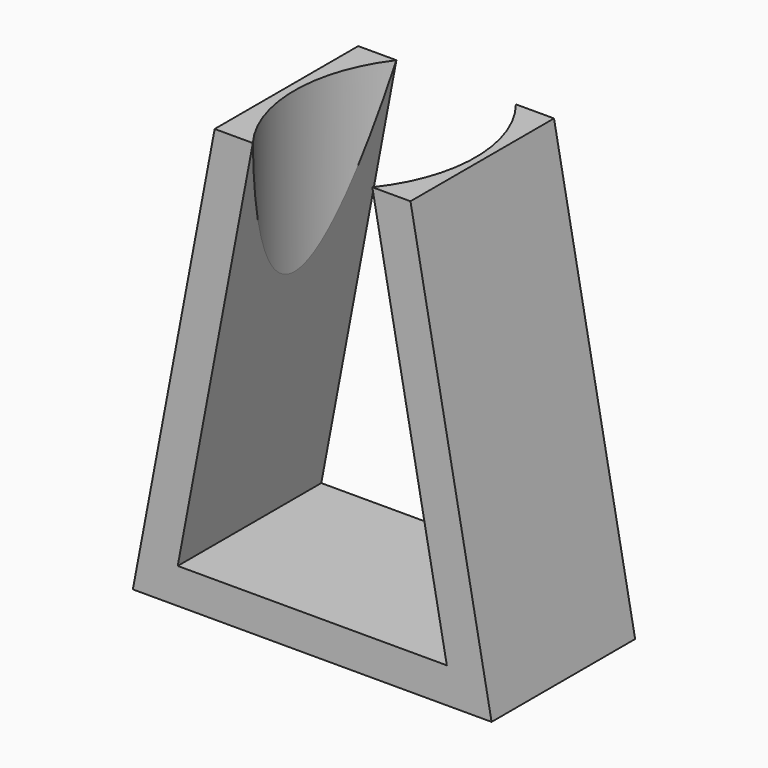
from build123d import *

# Parameters (mm, degrees)
F1_DEPTH = 10.16
F3_DEPTH = 20.32
F5_DEPTH = 20.32


with BuildPart() as f1:
    # F0 (on Front) → F1 (new body)
    with BuildSketch(Plane.XZ):
        Polygon((-10.16, 0), (0, 0), (10.149805, 0), (5.557302, 24.457385), (3.397579, 24.457385), (7.615184, 1.996521), (0, 1.996521), (-7.62, 1.996521), (-3.366859, 24.457385), (-5.528802, 24.457385), align=None)
    extrude(amount=F1_DEPTH)

    # F2 (on face) → F3 (cut)
    with BuildSketch(Plane.XY.offset(24.457385)):
        with BuildLine():
            Line((-3.366859, -10.16), (-3.366859, 0))
            ThreePointArc((-3.366859, 0), (-5.074936, -5.08), (-3.366859, -10.16))
        make_face()
    extrude(amount=-F3_DEPTH, mode=Mode.SUBTRACT)

    # F4 (on face) → F5 (cut)
    with BuildSketch(Plane.XY.offset(24.457385)):
        with BuildLine():
            Line((3.397579, 0), (3.397579, -10.16))
            ThreePointArc((3.397579, -10.16), (5.178992, -5.08), (3.397579, 0))
        make_face()
    extrude(amount=-F5_DEPTH, mode=Mode.SUBTRACT)


solid = f1.part
